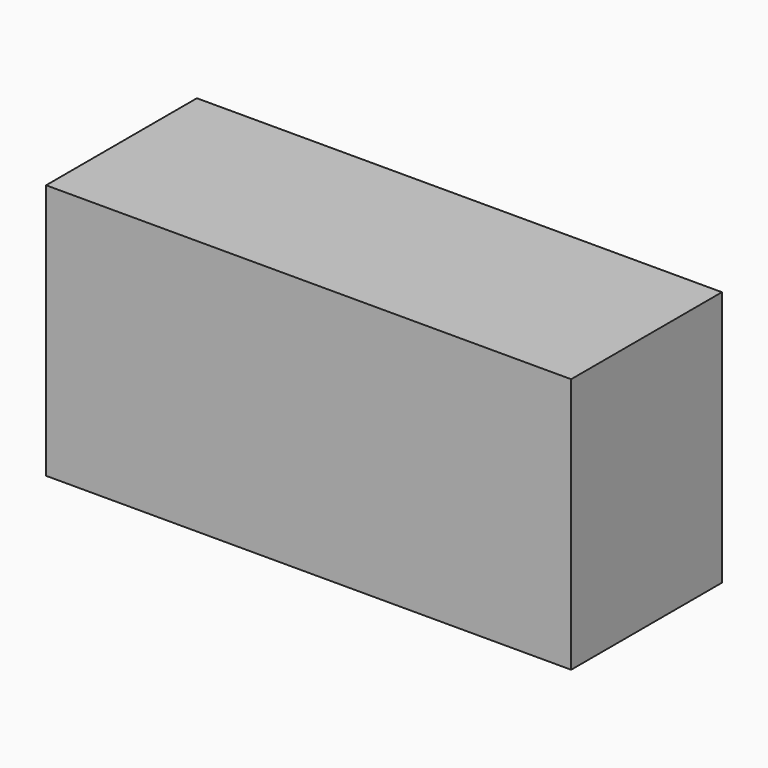
from build123d import *

# Parameters (mm, degrees)
BOX108_W     = 140
BOX108_H     = 80
BOX108_DEPTH = 180
BOX109_W     = 140
BOX109_H     = 80
BOX109_DEPTH = 180
BOX107_W     = 390
BOX107_H     = 140
BOX107_DEPTH = 190


with BuildPart() as cube080:
    # Box108 → Box108 (new body)
    with BuildSketch(Plane(origin=(220, 30, 0), x_dir=(1, 0, 0), z_dir=(0, 0, 1))):
        with Locations((70, 40)):
            Rectangle(BOX108_W, BOX108_H)
    extrude(amount=BOX108_DEPTH)


with BuildPart() as fusion019:
    # Box109 → Box109 (new body)
    with BuildSketch(Plane(origin=(30, 30, 0), x_dir=(1, 0, 0), z_dir=(0, 0, 1))):
        with Locations((70, 40)):
            Rectangle(BOX109_W, BOX109_H)
    extrude(amount=BOX109_DEPTH)

    # Fusion019: union Cube080
    add(cube080.part)


with BuildPart() as cut014:
    # Box107 → Box107 (new body)
    with BuildSketch(Plane.XY):
        with Locations((195, 70)):
            Rectangle(BOX107_W, BOX107_H)
    extrude(amount=BOX107_DEPTH)

    # Cut014: cut Fusion019
    add(fusion019.part, mode=Mode.SUBTRACT)


with BuildPart() as cut014_1:
    # Cut014 placement: moved
    add(cut014.part.moved(Location((340, -205, -190))))


solid = cut014_1.part
